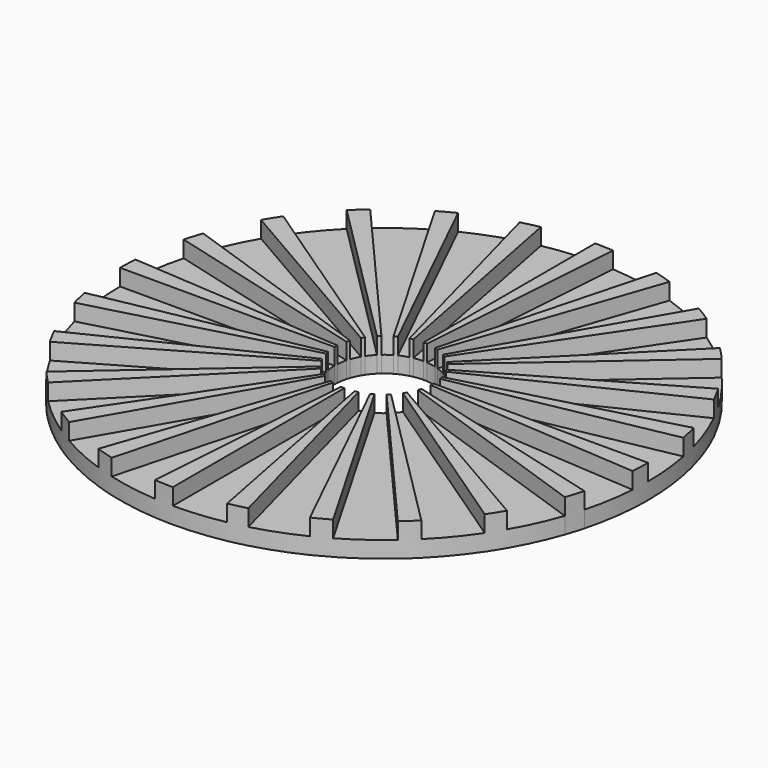
from build123d import *

# Parameters (mm, degrees)
F1_DEPTH = 12.7
F2_DEPTH = 6.35


with BuildPart() as f1:
    # F0 (on Top) → F1 (new body)
    with BuildSketch(Plane.XY):
        with BuildLine():
            Line((-26.2960149824, 98.138063951), (-4.9305028092, 18.4008869908))
            ThreePointArc((-4.9305028092, 18.4008869908), (-4.2853175853, 18.5617497342), (-3.6349113619, 18.6999978447))
            Line((-3.6349113619, 18.6999978447), (-19.3861939303, 99.7333218383))
            ThreePointArc((-19.3861939303, 99.7333218383), (-22.8550271213, 98.9959985822), (-26.2960149824, 98.138063951))
        make_face()
    extrude(amount=F1_DEPTH)



with BuildPart() as f1b:
    # F0 (on Top) → F1, piece 2 (new body)
    with BuildSketch(Plane.XY):
        with BuildLine():
            Line((0, 101.6), (0, 19.05))
            ThreePointArc((0, 19.05), (0.6648354122, 19.0383952547), (1.3288608248, 19.0035951574))
            Line((1.3288608248, 19.0035951574), (7.0872577324, 101.3525075064))
            ThreePointArc((7.0872577324, 101.3525075064), (3.545788865, 101.5381080251), (0, 101.6))
        make_face()
    extrude(amount=F1_DEPTH)


with BuildPart() as f1c:
    # F0 (on Top) → F1, piece 3 (new body)
    with BuildSketch(Plane.XY):
        with BuildLine():
            Line((26.2960149824, 98.138063951), (4.9305028092, 18.4008869908))
            ThreePointArc((4.9305028092, 18.4008869908), (5.569680975, 18.2176056011), (6.2020733424, 18.0121288652))
            Line((6.2020733424, 18.0121288652), (33.0777244928, 96.0646872809))
            ThreePointArc((33.0777244928, 96.0646872809), (29.7049651998, 97.1605632058), (26.2960149824, 98.138063951))
        make_face()
    extrude(amount=F1_DEPTH)


with BuildPart() as f1d:
    # F0 (on Top) → F1, piece 4 (new body)
    with BuildSketch(Plane.XY):
        with BuildLine():
            Line((50.8, 87.9881810245), (9.525, 16.4977839421))
            ThreePointArc((9.525, 16.4977839421), (10.0949619836, 16.1553162318), (10.6526248111, 15.7931657572))
            Line((10.6526248111, 15.7931657572), (56.8139989926, 84.2302173716))
            ThreePointArc((56.8139989926, 84.2302173716), (53.8397972461, 86.1616865695), (50.8, 87.9881810245))
        make_face()
    extrude(amount=F1_DEPTH)


with BuildPart() as f1e:
    # F0 (on Top) → F1, piece 5 (new body)
    with BuildSketch(Plane.XY):
        with BuildLine():
            Line((71.8420489686, 71.8420489686), (13.4703841816, 13.4703841816))
            ThreePointArc((13.4703841816, 13.4703841816), (13.9322880158, 12.9920687592), (14.3772175032, 12.4979245023))
            Line((14.3772175032, 12.4979245023), (76.6784933506, 66.6555973454))
            ThreePointArc((76.6784933506, 66.6555973454), (74.3055360845, 69.2910333823), (71.8420489686, 71.8420489686))
        make_face()
    extrude(amount=F1_DEPTH)


with BuildPart() as f1f:
    # F0 (on Top) → F1, piece 6 (new body)
    with BuildSketch(Plane.XY):
        with BuildLine():
            Line((17.122026582, 8.3509703463), (91.317475104, 44.5385085138))
            ThreePointArc((91.317475104, 44.5385085138), (89.7074754345, 47.698310779), (87.9881810245, 50.8))
            Line((87.9881810245, 50.8), (16.4977839421, 9.525))
            ThreePointArc((16.4977839421, 9.525), (16.820151644, 8.9434332711), (17.122026582, 8.3509703463))
        make_face()
    extrude(amount=F1_DEPTH)


with BuildPart() as f1g:
    # F0 (on Top) → F1, piece 7 (new body)
    with BuildSketch(Plane.XY):
        with BuildLine():
            Line((18.6999978447, 3.6349113619), (99.7333218383, 19.3861939303))
            ThreePointArc((99.7333218383, 19.3861939303), (98.9959985822, 22.8550271213), (98.138063951, 26.2960149824))
            Line((98.138063951, 26.2960149824), (18.4008869908, 4.9305028092))
            ThreePointArc((18.4008869908, 4.9305028092), (18.5617497342, 4.2853175853), (18.6999978447, 3.6349113619))
        make_face()
    extrude(amount=F1_DEPTH)


with BuildPart() as f1h:
    # F0 (on Top) → F1, piece 8 (new body)
    with BuildSketch(Plane.XY):
        with BuildLine():
            ThreePointArc((101.3525075064, -7.0872577324), (101.5381080251, -3.545788865), (101.6, 0))
            Line((101.6, 0), (19.05, 0))
            ThreePointArc((19.05, 0), (19.0383952547, -0.6648354122), (19.0035951574, -1.3288608248))
            Line((19.0035951574, -1.3288608248), (101.3525075064, -7.0872577324))
        make_face()
    extrude(amount=F1_DEPTH)


with BuildPart() as f1i:
    # F0 (on Top) → F1, piece 9 (new body)
    with BuildSketch(Plane.XY):
        with BuildLine():
            ThreePointArc((96.0646872809, -33.0777244928), (97.1605632058, -29.7049651998), (98.138063951, -26.2960149824))
            Line((98.138063951, -26.2960149824), (18.4008869908, -4.9305028092))
            ThreePointArc((18.4008869908, -4.9305028092), (18.2176056011, -5.569680975), (18.0121288652, -6.2020733424))
            Line((18.0121288652, -6.2020733424), (96.0646872809, -33.0777244928))
        make_face()
    extrude(amount=F1_DEPTH)


with BuildPart() as f1j:
    # F0 (on Top) → F1, piece 10 (new body)
    with BuildSketch(Plane.XY):
        with BuildLine():
            Line((87.9881810245, -50.8), (16.4977839421, -9.525))
            ThreePointArc((16.4977839421, -9.525), (16.1553162318, -10.0949619836), (15.7931657572, -10.6526248111))
            Line((15.7931657572, -10.6526248111), (84.2302173716, -56.8139989926))
            ThreePointArc((84.2302173716, -56.8139989926), (86.1616865695, -53.8397972461), (87.9881810245, -50.8))
        make_face()
    extrude(amount=F1_DEPTH)


with BuildPart() as f1k:
    # F0 (on Top) → F1, piece 11 (new body)
    with BuildSketch(Plane.XY):
        with BuildLine():
            Line((71.8420489686, -71.8420489686), (13.4703841816, -13.4703841816))
            ThreePointArc((13.4703841816, -13.4703841816), (12.9920687592, -13.9322880158), (12.4979245023, -14.3772175032))
            Line((12.4979245023, -14.3772175032), (66.6555973454, -76.6784933506))
            ThreePointArc((66.6555973454, -76.6784933506), (69.2910333823, -74.3055360845), (71.8420489686, -71.8420489686))
        make_face()
    extrude(amount=F1_DEPTH)


with BuildPart() as f1l:
    # F0 (on Top) → F1, piece 12 (new body)
    with BuildSketch(Plane.XY):
        with BuildLine():
            Line((50.8, -87.9881810245), (9.525, -16.4977839421))
            ThreePointArc((9.525, -16.4977839421), (8.9434332711, -16.820151644), (8.3509703463, -17.122026582))
            Line((8.3509703463, -17.122026582), (44.5385085138, -91.317475104))
            ThreePointArc((44.5385085138, -91.317475104), (47.698310779, -89.7074754345), (50.8, -87.9881810245))
        make_face()
    extrude(amount=F1_DEPTH)


with BuildPart() as f1m:
    # F0 (on Top) → F1, piece 13 (new body)
    with BuildSketch(Plane.XY):
        with BuildLine():
            Line((26.2960149824, -98.138063951), (4.9305028092, -18.4008869908))
            ThreePointArc((4.9305028092, -18.4008869908), (4.2853175853, -18.5617497342), (3.6349113619, -18.6999978447))
            Line((3.6349113619, -18.6999978447), (19.3861939303, -99.7333218383))
            ThreePointArc((19.3861939303, -99.7333218383), (22.8550271213, -98.9959985822), (26.2960149824, -98.138063951))
        make_face()
    extrude(amount=F1_DEPTH)


with BuildPart() as f1n:
    # F0 (on Top) → F1, piece 14 (new body)
    with BuildSketch(Plane.XY):
        with BuildLine():
            Line((0, -101.6), (0, -19.05))
            ThreePointArc((0, -19.05), (-0.6648354122, -19.0383952547), (-1.3288608248, -19.0035951574))
            Line((-1.3288608248, -19.0035951574), (-7.0872577324, -101.3525075064))
            ThreePointArc((-7.0872577324, -101.3525075064), (-3.545788865, -101.5381080251), (0, -101.6))
        make_face()
    extrude(amount=F1_DEPTH)


with BuildPart() as f1o:
    # F0 (on Top) → F1, piece 15 (new body)
    with BuildSketch(Plane.XY):
        with BuildLine():
            Line((-26.2960149824, -98.138063951), (-4.9305028092, -18.4008869908))
            ThreePointArc((-4.9305028092, -18.4008869908), (-5.569680975, -18.2176056011), (-6.2020733424, -18.0121288652))
            Line((-6.2020733424, -18.0121288652), (-33.0777244928, -96.0646872809))
            ThreePointArc((-33.0777244928, -96.0646872809), (-29.7049651998, -97.1605632058), (-26.2960149824, -98.138063951))
        make_face()
    extrude(amount=F1_DEPTH)


with BuildPart() as f1p:
    # F0 (on Top) → F1, piece 16 (new body)
    with BuildSketch(Plane.XY):
        with BuildLine():
            Line((-50.8, -87.9881810245), (-9.525, -16.4977839421))
            ThreePointArc((-9.525, -16.4977839421), (-10.0949619836, -16.1553162318), (-10.6526248111, -15.7931657572))
            Line((-10.6526248111, -15.7931657572), (-56.8139989926, -84.2302173716))
            ThreePointArc((-56.8139989926, -84.2302173716), (-53.8397972461, -86.1616865695), (-50.8, -87.9881810245))
        make_face()
    extrude(amount=F1_DEPTH)


with BuildPart() as f1q:
    # F0 (on Top) → F1, piece 17 (new body)
    with BuildSketch(Plane.XY):
        with BuildLine():
            Line((-71.8420489686, -71.8420489686), (-13.4703841816, -13.4703841816))
            ThreePointArc((-13.4703841816, -13.4703841816), (-13.9322880158, -12.9920687592), (-14.3772175032, -12.4979245023))
            Line((-14.3772175032, -12.4979245023), (-76.6784933506, -66.6555973454))
            ThreePointArc((-76.6784933506, -66.6555973454), (-74.3055360845, -69.2910333823), (-71.8420489686, -71.8420489686))
        make_face()
    extrude(amount=F1_DEPTH)


with BuildPart() as f1r:
    # F0 (on Top) → F1, piece 18 (new body)
    with BuildSketch(Plane.XY):
        with BuildLine():
            Line((-87.9881810245, -50.8), (-16.4977839421, -9.525))
            ThreePointArc((-16.4977839421, -9.525), (-16.820151644, -8.9434332711), (-17.122026582, -8.3509703463))
            Line((-17.122026582, -8.3509703463), (-91.317475104, -44.5385085138))
            ThreePointArc((-91.317475104, -44.5385085138), (-89.7074754345, -47.698310779), (-87.9881810245, -50.8))
        make_face()
    extrude(amount=F1_DEPTH)


with BuildPart() as f1s:
    # F0 (on Top) → F1, piece 19 (new body)
    with BuildSketch(Plane.XY):
        with BuildLine():
            Line((-98.138063951, -26.2960149824), (-18.4008869908, -4.9305028092))
            ThreePointArc((-18.4008869908, -4.9305028092), (-18.5617497342, -4.2853175853), (-18.6999978447, -3.6349113619))
            Line((-18.6999978447, -3.6349113619), (-99.7333218383, -19.3861939303))
            ThreePointArc((-99.7333218383, -19.3861939303), (-98.9959985822, -22.8550271213), (-98.138063951, -26.2960149824))
        make_face()
    extrude(amount=F1_DEPTH)


with BuildPart() as f1t:
    # F0 (on Top) → F1, piece 20 (new body)
    with BuildSketch(Plane.XY):
        with BuildLine():
            Line((-101.6, 0), (-19.05, 0))
            ThreePointArc((-19.05, 0), (-19.0383952547, 0.6648354122), (-19.0035951574, 1.3288608248))
            Line((-19.0035951574, 1.3288608248), (-101.3525075064, 7.0872577324))
            ThreePointArc((-101.3525075064, 7.0872577324), (-101.5381080251, 3.545788865), (-101.6, 0))
        make_face()
    extrude(amount=F1_DEPTH)


with BuildPart() as f1u:
    # F0 (on Top) → F1, piece 21 (new body)
    with BuildSketch(Plane.XY):
        with BuildLine():
            Line((-98.138063951, 26.2960149824), (-18.4008869908, 4.9305028092))
            ThreePointArc((-18.4008869908, 4.9305028092), (-18.2176056011, 5.569680975), (-18.0121288652, 6.2020733424))
            Line((-18.0121288652, 6.2020733424), (-96.0646872809, 33.0777244928))
            ThreePointArc((-96.0646872809, 33.0777244928), (-97.1605632058, 29.7049651998), (-98.138063951, 26.2960149824))
        make_face()
    extrude(amount=F1_DEPTH)


with BuildPart() as f1v:
    # F0 (on Top) → F1, piece 22 (new body)
    with BuildSketch(Plane.XY):
        with BuildLine():
            Line((-87.9881810245, 50.8), (-16.4977839421, 9.525))
            ThreePointArc((-16.4977839421, 9.525), (-16.1553162318, 10.0949619836), (-15.7931657572, 10.6526248111))
            Line((-15.7931657572, 10.6526248111), (-84.2302173716, 56.8139989926))
            ThreePointArc((-84.2302173716, 56.8139989926), (-86.1616865695, 53.8397972461), (-87.9881810245, 50.8))
        make_face()
    extrude(amount=F1_DEPTH)


with BuildPart() as f1w:
    # F0 (on Top) → F1, piece 23 (new body)
    with BuildSketch(Plane.XY):
        with BuildLine():
            Line((-71.8420489686, 71.8420489686), (-13.4703841816, 13.4703841816))
            ThreePointArc((-13.4703841816, 13.4703841816), (-12.9920687592, 13.9322880158), (-12.4979245023, 14.3772175032))
            Line((-12.4979245023, 14.3772175032), (-66.6555973454, 76.6784933506))
            ThreePointArc((-66.6555973454, 76.6784933506), (-69.2910333823, 74.3055360845), (-71.8420489686, 71.8420489686))
        make_face()
    extrude(amount=F1_DEPTH)


with BuildPart() as f1x:
    # F0 (on Top) → F1, piece 24 (new body)
    with BuildSketch(Plane.XY):
        with BuildLine():
            Line((-50.8, 87.9881810245), (-9.525, 16.4977839421))
            ThreePointArc((-9.525, 16.4977839421), (-8.9434332711, 16.820151644), (-8.3509703463, 17.122026582))
            Line((-8.3509703463, 17.122026582), (-44.5385085138, 91.317475104))
            ThreePointArc((-44.5385085138, 91.317475104), (-47.698310779, 89.7074754345), (-50.8, 87.9881810245))
        make_face()
    extrude(amount=F1_DEPTH)


with BuildPart() as f1_1:
    add(f1.part)

    add(f1b.part)  # F2 merges F1b

    add(f1c.part)  # F2 merges F1c

    add(f1d.part)  # F2 merges F1d

    add(f1e.part)  # F2 merges F1e

    add(f1f.part)  # F2 merges F1f

    add(f1g.part)  # F2 merges F1g

    add(f1h.part)  # F2 merges F1h

    add(f1i.part)  # F2 merges F1i

    add(f1j.part)  # F2 merges F1j

    add(f1k.part)  # F2 merges F1k

    add(f1l.part)  # F2 merges F1l

    add(f1m.part)  # F2 merges F1m

    add(f1n.part)  # F2 merges F1n

    add(f1o.part)  # F2 merges F1o

    add(f1p.part)  # F2 merges F1p

    add(f1q.part)  # F2 merges F1q

    add(f1r.part)  # F2 merges F1r

    add(f1s.part)  # F2 merges F1s

    add(f1t.part)  # F2 merges F1t

    add(f1u.part)  # F2 merges F1u

    add(f1v.part)  # F2 merges F1v

    add(f1w.part)  # F2 merges F1w

    add(f1x.part)  # F2 merges F1x
    # F0 (on Top) → F2 (join)
    with BuildSketch(Plane.XY):
        with BuildLine():
            ThreePointArc((-19.0035951574, 1.3288608248), (-18.7887407093, 3.1441568916), (-18.4008869908, 4.9305028092))
            Line((-18.4008869908, 4.9305028092), (-98.138063951, 26.2960149824))
            ThreePointArc((-98.138063951, 26.2960149824), (-100.2066171162, 16.7688367554), (-101.3525075064, 7.0872577324))
            Line((-101.3525075064, 7.0872577324), (-19.0035951574, 1.3288608248))
        make_face()
        with BuildLine():
            ThreePointArc((-18.0121288652, 6.2020733424), (-17.3347622102, 7.8999062726), (-16.4977839421, 9.525))
            Line((-16.4977839421, 9.525), (-87.9881810245, 50.8))
            ThreePointArc((-87.9881810245, 50.8), (-92.4520651211, 42.1328334539), (-96.0646872809, 33.0777244928))
            Line((-96.0646872809, 33.0777244928), (-18.0121288652, 6.2020733424))
        make_face()
        with BuildLine():
            ThreePointArc((-15.7931657572, 10.6526248111), (-14.6994483135, 12.1172900963), (-13.4703841816, 13.4703841816))
            Line((-13.4703841816, 13.4703841816), (-71.8420489686, 71.8420489686))
            ThreePointArc((-71.8420489686, 71.8420489686), (-78.3970576722, 64.6255471802), (-84.2302173716, 56.8139989926))
            Line((-84.2302173716, 56.8139989926), (-15.7931657572, 10.6526248111))
        make_face()
        with BuildLine():
            ThreePointArc((-12.4979245023, 14.3772175032), (-11.0623913063, 15.5089006247), (-9.525, 16.4977839421))
            Line((-9.525, 16.4977839421), (-50.8, 87.9881810245))
            ThreePointArc((-50.8, 87.9881810245), (-58.9994203002, 82.714136665), (-66.6555973454, 76.6784933506))
            Line((-66.6555973454, 76.6784933506), (-12.4979245023, 14.3772175032))
        make_face()
        with BuildLine():
            ThreePointArc((-8.3509703463, 17.122026582), (-6.671450613, 17.8436052052), (-4.9305028092, 18.4008869908))
            Line((-4.9305028092, 18.4008869908), (-26.2960149824, 98.138063951))
            ThreePointArc((-26.2960149824, 98.138063951), (-35.581069936, 95.1658944276), (-44.5385085138, 91.317475104))
            Line((-44.5385085138, 91.317475104), (-8.3509703463, 17.122026582))
        make_face()
        with BuildLine():
            ThreePointArc((-3.6349113619, 18.6999978447), (-1.8258615855, 18.9622975789), (0, 19.05))
            Line((0, 19.05), (0, 101.6))
            ThreePointArc((0, 101.6), (-9.7379284561, 101.1322537541), (-19.3861939303, 99.7333218383))
            Line((-19.3861939303, 99.7333218383), (-3.6349113619, 18.6999978447))
        make_face()
        with BuildLine():
            ThreePointArc((1.3288608248, 19.0035951574), (3.1441568916, 18.7887407093), (4.9305028092, 18.4008869908))
            Line((4.9305028092, 18.4008869908), (26.2960149824, 98.138063951))
            ThreePointArc((26.2960149824, 98.138063951), (16.7688367554, 100.2066171162), (7.0872577324, 101.3525075064))
            Line((7.0872577324, 101.3525075064), (1.3288608248, 19.0035951574))
        make_face()
        with BuildLine():
            ThreePointArc((-18.6999978447, -3.6349113619), (-18.9622975789, -1.8258615855), (-19.05, 0))
            Line((-19.05, 0), (-101.6, 0))
            ThreePointArc((-101.6, 0), (-101.1322537541, -9.7379284561), (-99.7333218383, -19.3861939303))
            Line((-99.7333218383, -19.3861939303), (-18.6999978447, -3.6349113619))
        make_face()
        with BuildLine():
            ThreePointArc((-17.122026582, -8.3509703463), (-17.8436052052, -6.671450613), (-18.4008869908, -4.9305028092))
            Line((-18.4008869908, -4.9305028092), (-98.138063951, -26.2960149824))
            ThreePointArc((-98.138063951, -26.2960149824), (-95.1658944276, -35.581069936), (-91.317475104, -44.5385085138))
            Line((-91.317475104, -44.5385085138), (-17.122026582, -8.3509703463))
        make_face()
        with BuildLine():
            ThreePointArc((-14.3772175032, -12.4979245023), (-15.5089006247, -11.0623913063), (-16.4977839421, -9.525))
            Line((-16.4977839421, -9.525), (-87.9881810245, -50.8))
            ThreePointArc((-87.9881810245, -50.8), (-82.714136665, -58.9994203002), (-76.6784933506, -66.6555973454))
            Line((-76.6784933506, -66.6555973454), (-14.3772175032, -12.4979245023))
        make_face()
        with BuildLine():
            ThreePointArc((-10.6526248111, -15.7931657572), (-12.1172900963, -14.6994483135), (-13.4703841816, -13.4703841816))
            Line((-13.4703841816, -13.4703841816), (-71.8420489686, -71.8420489686))
            ThreePointArc((-71.8420489686, -71.8420489686), (-64.6255471802, -78.3970576722), (-56.8139989926, -84.2302173716))
            Line((-56.8139989926, -84.2302173716), (-10.6526248111, -15.7931657572))
        make_face()
        with BuildLine():
            ThreePointArc((-6.2020733424, -18.0121288652), (-7.8999062726, -17.3347622102), (-9.525, -16.4977839421))
            Line((-9.525, -16.4977839421), (-50.8, -87.9881810245))
            ThreePointArc((-50.8, -87.9881810245), (-42.1328334539, -92.4520651211), (-33.0777244928, -96.0646872809))
            Line((-33.0777244928, -96.0646872809), (-6.2020733424, -18.0121288652))
        make_face()
        with BuildLine():
            ThreePointArc((-1.3288608248, -19.0035951574), (-3.1441568916, -18.7887407093), (-4.9305028092, -18.4008869908))
            Line((-4.9305028092, -18.4008869908), (-26.2960149824, -98.138063951))
            ThreePointArc((-26.2960149824, -98.138063951), (-16.7688367554, -100.2066171162), (-7.0872577324, -101.3525075064))
            Line((-7.0872577324, -101.3525075064), (-1.3288608248, -19.0035951574))
        make_face()
        with BuildLine():
            ThreePointArc((3.6349113619, -18.6999978447), (1.8258615855, -18.9622975789), (0, -19.05))
            Line((0, -19.05), (0, -101.6))
            ThreePointArc((0, -101.6), (9.7379284561, -101.1322537541), (19.3861939303, -99.7333218383))
            Line((19.3861939303, -99.7333218383), (3.6349113619, -18.6999978447))
        make_face()
        with BuildLine():
            ThreePointArc((8.3509703463, -17.122026582), (6.671450613, -17.8436052052), (4.9305028092, -18.4008869908))
            Line((4.9305028092, -18.4008869908), (26.2960149824, -98.138063951))
            ThreePointArc((26.2960149824, -98.138063951), (35.581069936, -95.1658944276), (44.5385085138, -91.317475104))
            Line((44.5385085138, -91.317475104), (8.3509703463, -17.122026582))
        make_face()
        with BuildLine():
            ThreePointArc((12.4979245023, -14.3772175032), (11.0623913063, -15.5089006247), (9.525, -16.4977839421))
            Line((9.525, -16.4977839421), (50.8, -87.9881810245))
            ThreePointArc((50.8, -87.9881810245), (58.9994203002, -82.714136665), (66.6555973454, -76.6784933506))
            Line((66.6555973454, -76.6784933506), (12.4979245023, -14.3772175032))
        make_face()
        with BuildLine():
            ThreePointArc((15.7931657572, -10.6526248111), (14.6994483135, -12.1172900963), (13.4703841816, -13.4703841816))
            Line((13.4703841816, -13.4703841816), (71.8420489686, -71.8420489686))
            ThreePointArc((71.8420489686, -71.8420489686), (78.3970576722, -64.6255471802), (84.2302173716, -56.8139989926))
            Line((84.2302173716, -56.8139989926), (15.7931657572, -10.6526248111))
        make_face()
        with BuildLine():
            ThreePointArc((87.9881810245, -50.8), (92.4520651211, -42.1328334539), (96.0646872809, -33.0777244928))
            Line((96.0646872809, -33.0777244928), (18.0121288652, -6.2020733424))
            ThreePointArc((18.0121288652, -6.2020733424), (17.3347622102, -7.8999062726), (16.4977839421, -9.525))
            Line((16.4977839421, -9.525), (87.9881810245, -50.8))
        make_face()
        with BuildLine():
            ThreePointArc((98.138063951, -26.2960149824), (100.2066171162, -16.7688367554), (101.3525075064, -7.0872577324))
            Line((101.3525075064, -7.0872577324), (19.0035951574, -1.3288608248))
            ThreePointArc((19.0035951574, -1.3288608248), (18.7887407093, -3.1441568916), (18.4008869908, -4.9305028092))
            Line((18.4008869908, -4.9305028092), (98.138063951, -26.2960149824))
        make_face()
        with BuildLine():
            Line((19.05, 0), (101.6, 0))
            ThreePointArc((101.6, 0), (101.1322537541, 9.7379284561), (99.7333218383, 19.3861939303))
            Line((99.7333218383, 19.3861939303), (18.6999978447, 3.6349113619))
            ThreePointArc((18.6999978447, 3.6349113619), (18.9622975789, 1.8258615855), (19.05, 0))
        make_face()
        with BuildLine():
            Line((18.4008869908, 4.9305028092), (98.138063951, 26.2960149824))
            ThreePointArc((98.138063951, 26.2960149824), (95.1658944276, 35.581069936), (91.317475104, 44.5385085138))
            Line((91.317475104, 44.5385085138), (17.122026582, 8.3509703463))
            ThreePointArc((17.122026582, 8.3509703463), (17.8436052052, 6.671450613), (18.4008869908, 4.9305028092))
        make_face()
        with BuildLine():
            ThreePointArc((14.3772175032, 12.4979245023), (15.5089006247, 11.0623913063), (16.4977839421, 9.525))
            Line((16.4977839421, 9.525), (87.9881810245, 50.8))
            ThreePointArc((87.9881810245, 50.8), (82.714136665, 58.9994203002), (76.6784933506, 66.6555973454))
            Line((76.6784933506, 66.6555973454), (14.3772175032, 12.4979245023))
        make_face()
        with BuildLine():
            ThreePointArc((10.6526248111, 15.7931657572), (12.1172900963, 14.6994483135), (13.4703841816, 13.4703841816))
            Line((13.4703841816, 13.4703841816), (71.8420489686, 71.8420489686))
            ThreePointArc((71.8420489686, 71.8420489686), (64.6255471802, 78.3970576722), (56.8139989926, 84.2302173716))
            Line((56.8139989926, 84.2302173716), (10.6526248111, 15.7931657572))
        make_face()
        with BuildLine():
            ThreePointArc((6.2020733424, 18.0121288652), (7.8999062726, 17.3347622102), (9.525, 16.4977839421))
            Line((9.525, 16.4977839421), (50.8, 87.9881810245))
            ThreePointArc((50.8, 87.9881810245), (42.1328334539, 92.4520651211), (33.0777244928, 96.0646872809))
            Line((33.0777244928, 96.0646872809), (6.2020733424, 18.0121288652))
        make_face()
    extrude(amount=F2_DEPTH)


solid = f1_1.part
